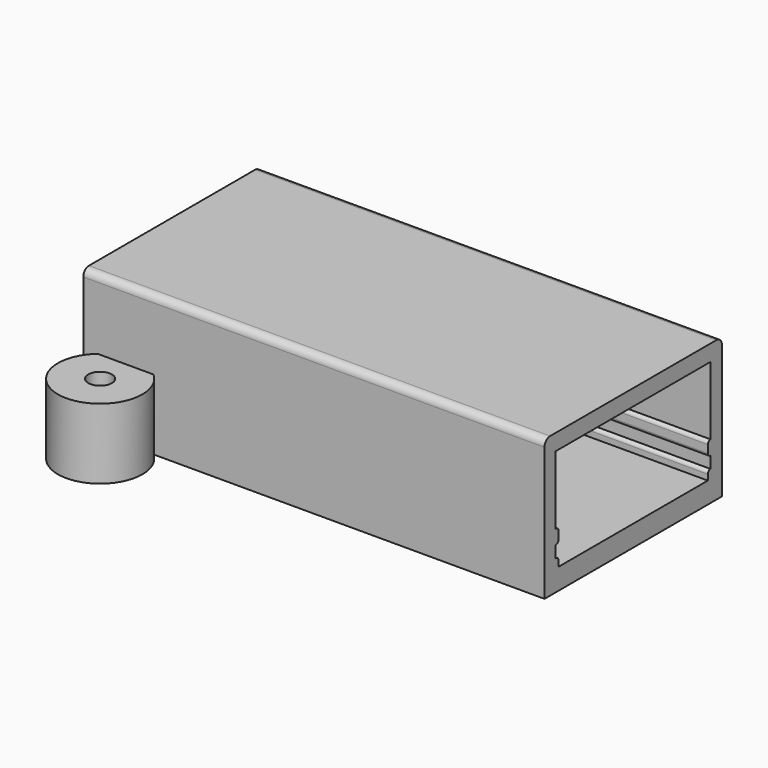
from build123d import *

# Parameters (mm, degrees)
TUBE_R        = 6
TUBE_R_2      = 1.675
TUBE_DEPTH    = 10
SKETCH003_W   = 27.5
SKETCH003_H   = 14.65
PAD002_DEPTH  = 10
SKETCH002_W   = 0.5
SKETCH002_H   = 1.25
SKETCH002_H_2 = 2
PAD003_DEPTH  = 100
SKETCH001_W   = 65.5
SKETCH001_H   = 27.5
PAD001_DEPTH  = 14.65
SKETCH_W      = 65.5
SKETCH_H      = 31.5
PAD_DEPTH     = 19.95
FILLET_R      = 0.45
FILLET001_R   = 1


with BuildPart() as tube:
    # Tube → Tube (new body)
    with BuildSketch(Plane(origin=(6, -4.5, 0), x_dir=(1, 0, 0), z_dir=(0, 0, 1))):
        Circle(TUBE_R)
        Circle(TUBE_R_2, mode=Mode.SUBTRACT)
    extrude(amount=TUBE_DEPTH)


with BuildPart() as inner_volume_track_removal:
    # Sketch003 → Pad002 (new body)
    with BuildSketch(Plane.YZ):
        with Locations((13.75, 7.325)):
            Rectangle(SKETCH003_W, SKETCH003_H)
    extrude(amount=PAD002_DEPTH)

    # Sketch002 → Pad003 (join)
    with BuildSketch(Plane.YZ):
        with Locations((0.25, 0.625)):
            Rectangle(SKETCH002_W, SKETCH002_H)
        with Locations((27.25, 0.625)):
            Rectangle(SKETCH002_W, SKETCH002_H)
        with Locations((0.25, 3.95)):
            Rectangle(SKETCH002_W, SKETCH002_H_2)
        with Locations((27.25, 3.95)):
            Rectangle(SKETCH002_W, SKETCH002_H_2)
    extrude(amount=PAD003_DEPTH)


with BuildPart() as inner_volume_track_removal_1:
    # Body002 placement: moved
    add(inner_volume_track_removal.part.moved(Location((-25, 0, 0))))


with BuildPart() as cut:
    # Sketch001 → Pad001 (new body)
    with BuildSketch(Plane.XY):
        with Locations((32.75, 13.75)):
            Rectangle(SKETCH001_W, SKETCH001_H)
    extrude(amount=PAD001_DEPTH)

    # Cut: cut Inner Volume Track Removal
    add(inner_volume_track_removal_1.part, mode=Mode.SUBTRACT)


with BuildPart() as cut_1:
    # Cut placement: moved
    add(cut.part.moved(Location((0, 2, 3))))


with BuildPart() as obj1:
    # Sketch → Pad (new body)
    with BuildSketch(Plane.XY):
        with Locations((32.75, 15.75)):
            Rectangle(SKETCH_W, SKETCH_H)
    extrude(amount=PAD_DEPTH)

    # Cut001: cut Cut
    add(cut_1.part, mode=Mode.SUBTRACT)

    # Fillet
    fillet_edges = [obj1.edges().sort_by_distance(p)[0] for p in [
        (32.75, 2.5, 4.25),
        (32.75, 29, 4.25),
        (32.75, 29, 5.95),
        (32.75, 29, 7.95),
        (32.75, 2.5, 7.95),
        (32.75, 2.5, 5.95),
    ]]
    fillet(fillet_edges, radius=FILLET_R)

    # Fillet001
    fillet001_edges = [obj1.edges().sort_by_distance(p)[0] for p in [
        (32.75, 31.5, 19.95),
        (32.75, 0, 19.95),
    ]]
    fillet(fillet001_edges, radius=FILLET001_R)

    # Fusion: union Tube
    add(tube.part)


solid = obj1.part
